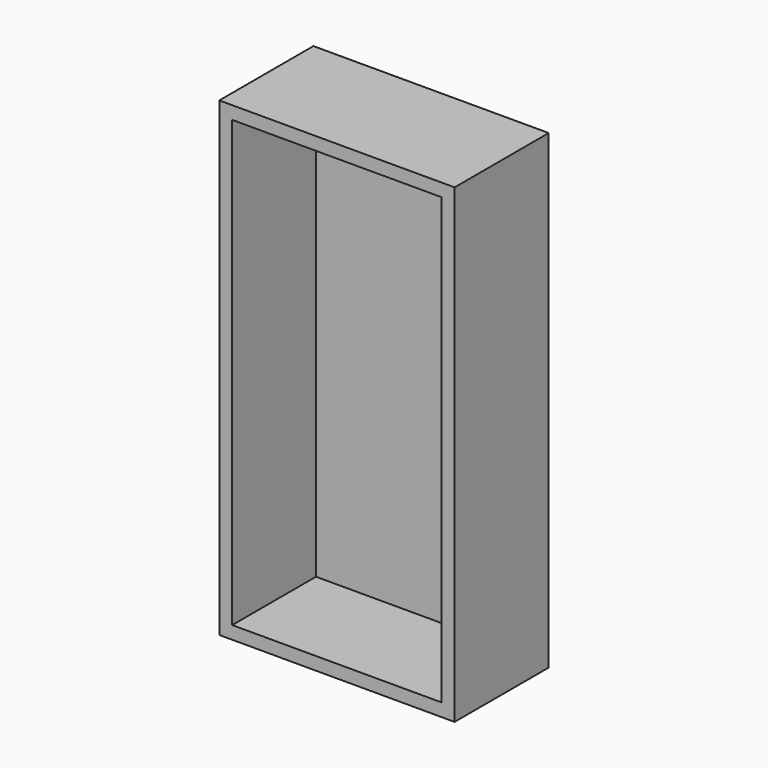
from build123d import *

# Parameters (mm, degrees)
F0_W     = 356
F0_H     = 756
F1_DEPTH = 22
F0_W_2   = 400
F0_H_2   = 800
F2_DEPTH = 200


with BuildPart() as f1:
    # F0 (on Front) → F1 (new body)
    with BuildSketch(Plane.XZ):
        with Locations((-200, 400)):
            Rectangle(F0_W, F0_H)
    extrude(amount=F1_DEPTH)

    # F0 (on Front) → F2 (join)
    with BuildSketch(Plane.XZ):
        with Locations((-200, 400)):
            Rectangle(F0_W_2, F0_H_2)
        with Locations((-200, 400)):
            Rectangle(F0_W, F0_H, mode=Mode.SUBTRACT)
    extrude(amount=F2_DEPTH)


solid = f1.part
